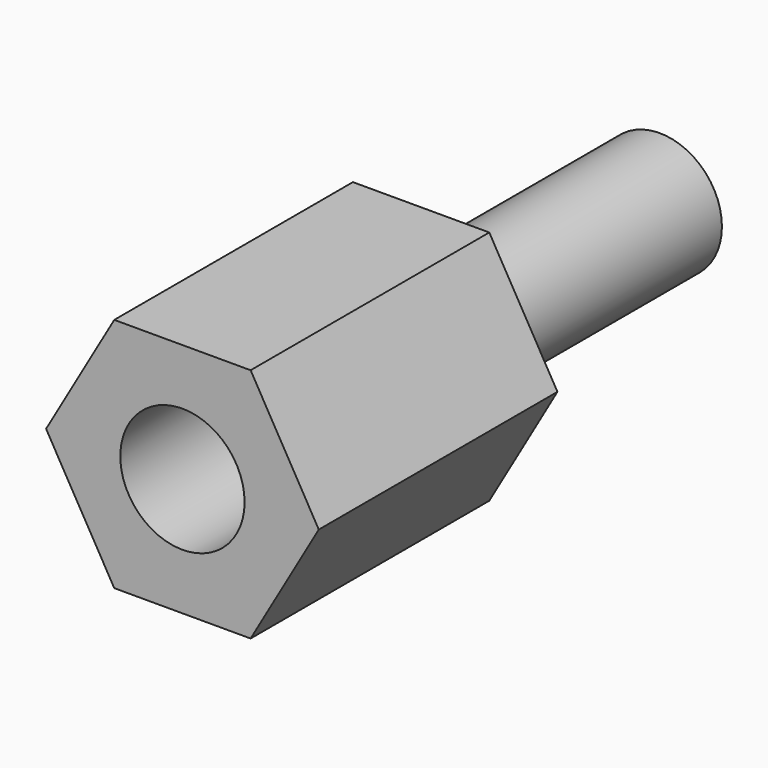
from build123d import *

# Parameters (mm, degrees)
PAD002_DEPTH            = 6
SKETCH008_R             = 1.25
PAD003_DEPTH            = 6
SKETCH009_R             = 1.25
POCKET004_DEPTH         = 5
BODY003_PLACEMENT_ANGLE = 90


with BuildPart() as part:
    # Sketch007 → Pad002 (new body)
    with BuildSketch(Plane.XY):
        Polygon((1.371207, 2.375), (-1.371207, 2.375), (-2.742414, 0), (-1.371207, -2.375), (1.371207, -2.375), (2.742414, 0), align=None)
    extrude(amount=PAD002_DEPTH)

    # Sketch008 (on Face7 of Pad002) → Pad003 (join)
    with BuildSketch(Plane(origin=(0, 0, 0), x_dir=(1, 0, 0), z_dir=(0, 0, -1))):
        Circle(SKETCH008_R)
    extrude(amount=PAD003_DEPTH)

    # Sketch009 (on Face5 of Pad003) → Pocket004 (cut)
    with BuildSketch(Plane.XY.offset(6)):
        Circle(SKETCH009_R)
    extrude(amount=-POCKET004_DEPTH, mode=Mode.SUBTRACT)


with BuildPart() as part_1:
    # Body003 placement: moved
    add(part.part.moved(Location((61, -16.5, -13.5))).rotate(Axis((61, -16.5, -13.5), (1, 0, 0)), BODY003_PLACEMENT_ANGLE))


with BuildPart() as part_2:
    # Body004 placement: moved
    add(part_1.part.moved(Location((58, 0, 0))))


solid = part_2.part
